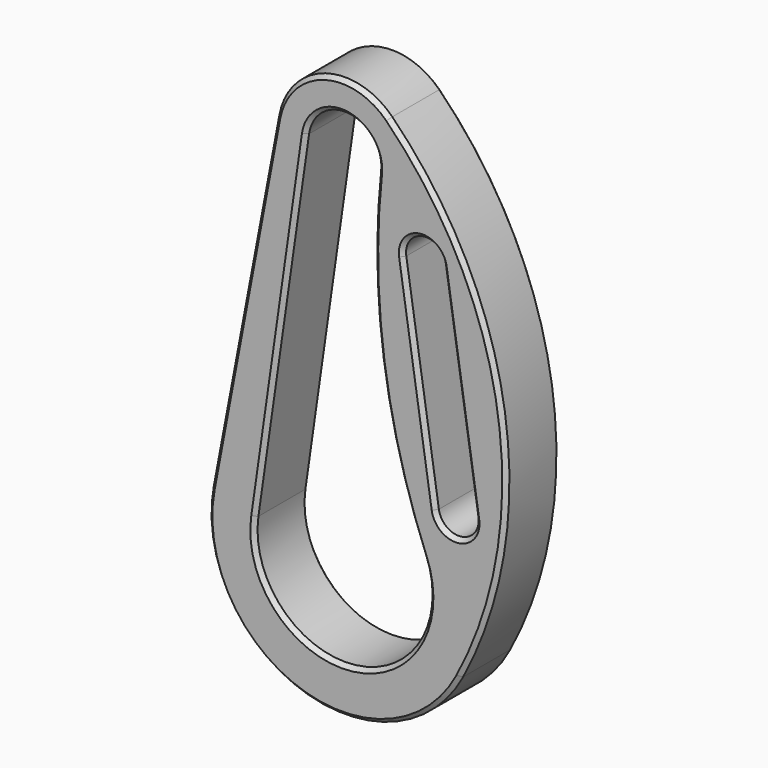
from build123d import *

# Parameters (mm, degrees)
F1_DEPTH = 25
F2_SIZE  = 1.5


with BuildPart() as f1:
    # F0 (on Front) → F1 (new body)
    with BuildSketch(Plane.XZ):
        with BuildLine():
            Line((-24.567591, 139.62963), (-49.135182, 9.259259))
            ThreePointArc((-49.135182, 9.259259), (-16.480441, -47.20588), (44.221664, -23.333333))
            ThreePointArc((44.221664, -23.333333), (59.880642, 69.027346), (17.688666, 152.666667))
            ThreePointArc((17.688666, 152.666667), (-7.370277, 158.888889), (-24.567591, 139.62963))
        make_face()
        with BuildLine():
            ThreePointArc((-13.465494, 136.932296), (1.689992, 148.498045), (13.526237, 133.552858))
            ThreePointArc((13.526237, 133.552858), (14.503044, 71.864353), (30.40355, 12.252276))
            ThreePointArc((30.40355, 12.252276), (3.933102, -32.542662), (-32.447101, 4.656154))
            Line((-32.447101, 4.656154), (-13.465494, 136.932296))
        make_face(mode=Mode.SUBTRACT)
        with BuildLine():
            ThreePointArc((22.925342, 108.474945), (29.200596, 117.026037), (37.751689, 110.750783))
            Line((37.751689, 110.750783), (49.95545, 31.247234))
            ThreePointArc((49.95545, 31.247234), (43.680196, 22.696142), (35.129104, 28.971396))
            Line((35.129104, 28.971396), (22.925342, 108.474945))
        make_face(mode=Mode.SUBTRACT)
    extrude(amount=F1_DEPTH)

    # F2
    f2_edges = [f1.edges().sort_by_distance(p)[0] for p in [
        (59.880642, -25, 69.027346),
        (-7.370277, -25, 158.888889),
        (-36.851387, -25, 74.444444),
        (-16.480441, -25, -47.20588),
        (1.689992, -25, 148.498045),
        (14.503044, -25, 71.864353),
        (3.933102, -25, -32.542662),
        (-22.956298, -25, 70.794225),
        (29.027223, -25, 68.723171),
        (29.200596, -25, 117.026037),
        (43.85357, -25, 70.999009),
        (43.680196, -25, 22.696142),
        (59.880642, 0, 69.027346),
        (-7.370277, 0, 158.888889),
        (-36.851387, 0, 74.444444),
        (-16.480441, 0, -47.20588),
        (1.689992, 0, 148.498045),
        (14.503044, 0, 71.864353),
        (3.933102, 0, -32.542662),
        (-22.956298, 0, 70.794225),
        (29.027223, 0, 68.723171),
        (29.200596, 0, 117.026037),
        (43.85357, 0, 70.999009),
        (43.680196, 0, 22.696142),
    ]]
    chamfer(f2_edges, length=F2_SIZE)


solid = f1.part
